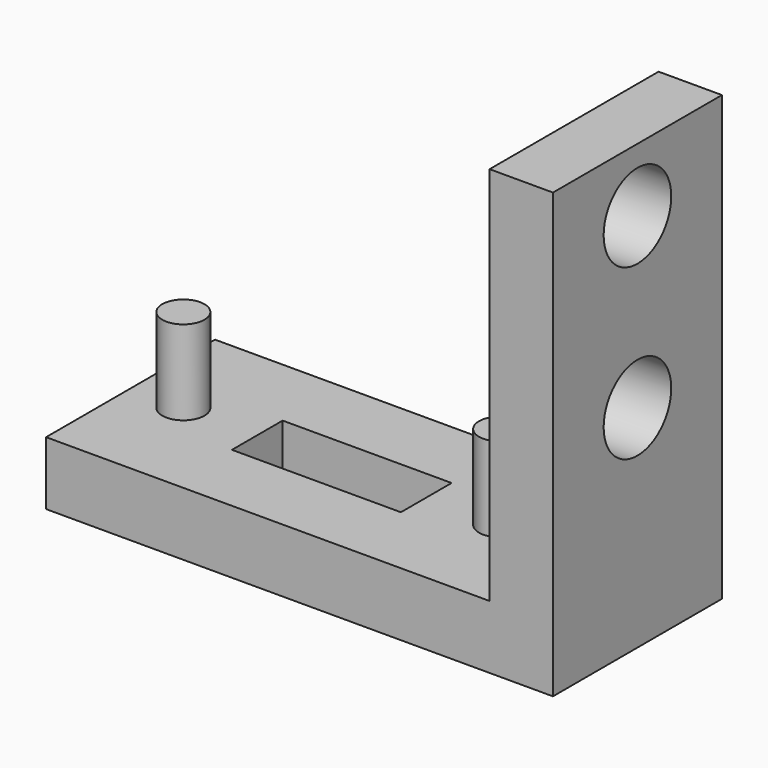
from build123d import *

# Parameters (mm, degrees)
F1_DEPTH = 10
F2_R     = 1
F3_DEPTH = 4
F4_W     = 8
F4_H     = 3
F5_DEPTH = 25
F6_R     = 2
F7_DEPTH = 25


with BuildPart() as f1:
    # F0 (on Front) → F1 (new body)
    with BuildSketch(Plane.XZ):
        Polygon((-24, 0), (0, 0), (0, 21), (-3, 21), (-3, 3), (-24, 3), align=None)
    extrude(amount=F1_DEPTH)

    # F2 (on face) → F3 (join)
    with BuildSketch(Plane.XY.offset(3)):
        with Locations((-21.5, -5)):
            Circle(F2_R)
        with Locations((-6.5, -5)):
            Circle(F2_R)
    extrude(amount=F3_DEPTH)

    # F4 (on face) → F5 (cut)
    with BuildSketch(Plane.XY.offset(3)):
        with Locations((-14, -5)):
            Rectangle(F4_W, F4_H)
    extrude(amount=-F5_DEPTH, mode=Mode.SUBTRACT)

    # F6 (on face) → F7 (cut)
    with BuildSketch(Plane(origin=(-3, 0, 0), x_dir=(0, -1, 0), z_dir=(-1, 0, 0))):
        with Locations((5, 18)):
            Circle(F6_R)
        with Locations((5, 10)):
            Circle(F6_R)
    extrude(amount=-F7_DEPTH, mode=Mode.SUBTRACT)


solid = f1.part
